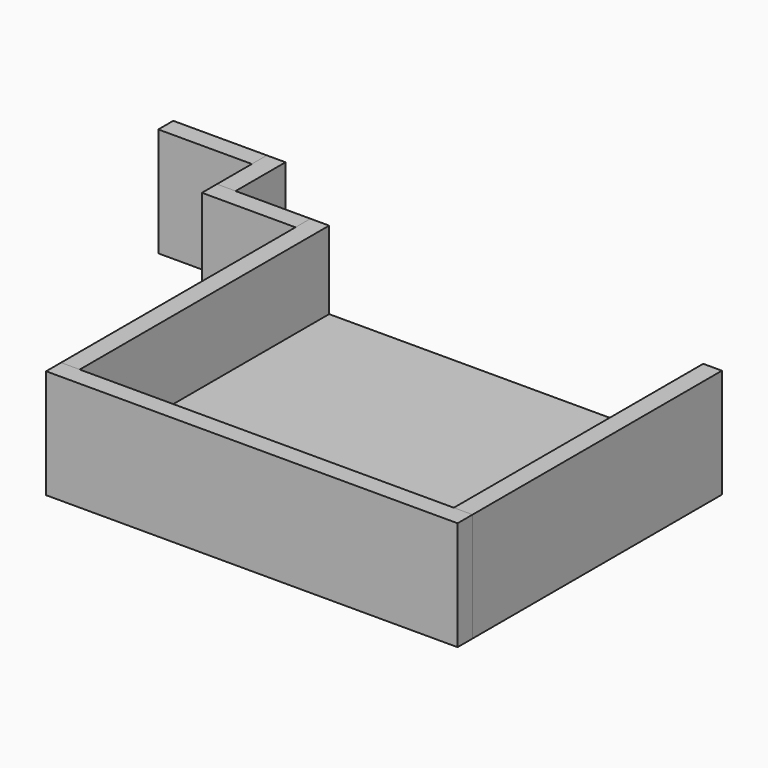
from build123d import *

# Parameters (mm, degrees)
BOX_W          = 60
BOX_H          = 50
BOX_DEPTH      = 5
BOX001_W       = 3
BOX001_H       = 50
BOX001_DEPTH   = 17.5
BOX002_W       = 3
BOX002_H       = 50
BOX002_DEPTH   = 17.5
BOX003_W       = 15
BOX003_H       = 3
BOX003_DEPTH   = 17.5
BOX004_W       = 66
BOX004_H       = 3
BOX004_DEPTH   = 17.5
BOX005_W       = 3
BOX005_H       = 10
BOX005_DEPTH   = 17.5
BOX006_W       = 15
BOX006_H       = 3
BOX006_DEPTH   = 17.5
CYLINDER_R     = 2
CYLINDER_DEPTH = 10


with BuildPart() as base:
    # Box → Box (new body)
    with BuildSketch(Plane.XY):
        with Locations((30, 25)):
            Rectangle(BOX_W, BOX_H)
    extrude(amount=BOX_DEPTH)


with BuildPart() as box001:
    # Box001 → Box001 (new body)
    with BuildSketch(Plane(origin=(60, 0, 0), x_dir=(1, 0, 0), z_dir=(0, 0, 1))):
        with Locations((1.5, 25)):
            Rectangle(BOX001_W, BOX001_H)
    extrude(amount=BOX001_DEPTH)


with BuildPart() as box002:
    # Box002 → Box002 (new body)
    with BuildSketch(Plane(origin=(-3, 0, 0), x_dir=(1, 0, 0), z_dir=(0, 0, 1))):
        with Locations((1.5, 25)):
            Rectangle(BOX002_W, BOX002_H)
    extrude(amount=BOX002_DEPTH)


with BuildPart() as box003:
    # Box003 → Box003 (new body)
    with BuildSketch(Plane(origin=(-18, 47, 0), x_dir=(1, 0, 0), z_dir=(0, 0, 1))):
        with Locations((7.5, 1.5)):
            Rectangle(BOX003_W, BOX003_H)
    extrude(amount=BOX003_DEPTH)


with BuildPart() as box004:
    # Box004 → Box004 (new body)
    with BuildSketch(Plane(origin=(-3, -3, 0), x_dir=(1, 0, 0), z_dir=(0, 0, 1))):
        with Locations((33, 1.5)):
            Rectangle(BOX004_W, BOX004_H)
    extrude(amount=BOX004_DEPTH)


with BuildPart() as box005:
    # Box005 → Box005 (new body)
    with BuildSketch(Plane(origin=(-18, 50, 0), x_dir=(1, 0, 0), z_dir=(0, 0, 1))):
        with Locations((1.5, 5)):
            Rectangle(BOX005_W, BOX005_H)
    extrude(amount=BOX005_DEPTH)


with BuildPart() as box006:
    # Box006 → Box006 (new body)
    with BuildSketch(Plane(origin=(-33, 57, 0), x_dir=(1, 0, 0), z_dir=(0, 0, 1))):
        with Locations((7.5, 1.5)):
            Rectangle(BOX006_W, BOX006_H)
    extrude(amount=BOX006_DEPTH)


with BuildPart() as cylinder:
    # Cylinder → Cylinder (new body)
    with BuildSketch(Plane.XY):
        Circle(CYLINDER_R)
    extrude(amount=CYLINDER_DEPTH)


solid = Compound([base.part, box001.part, box002.part, box003.part, box004.part, box005.part, box006.part, cylinder.part])
